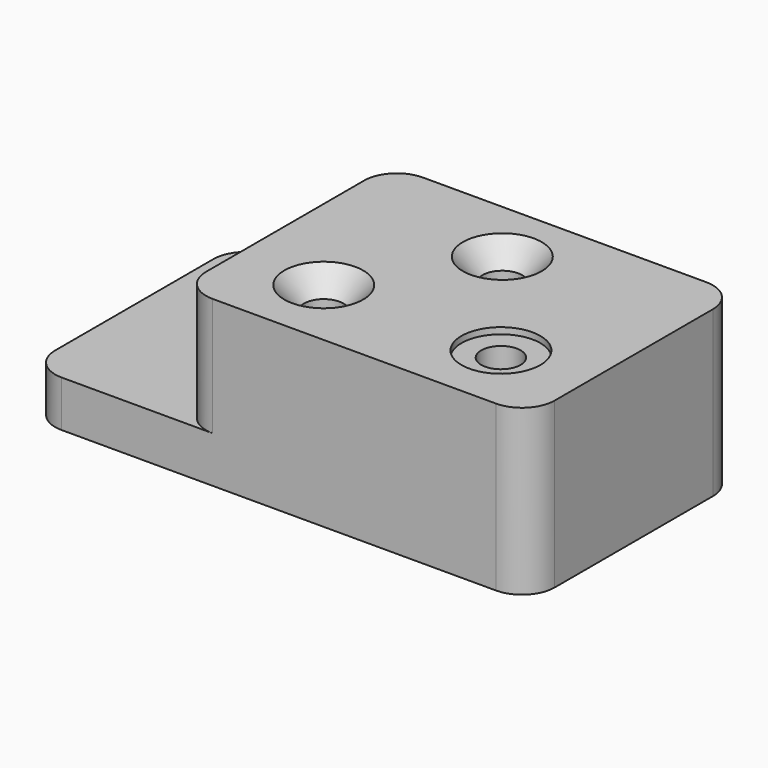
from build123d import *

# Parameters (mm, degrees)
F0_W                 = 241.3
F0_H                 = 127
F1_DEPTH             = 22.352
F2_W                 = 168.402
F2_H                 = 127
F3_DEPTH             = 57.15
F6_D                 = 19.05
F6_CBORE_D           = 38.1
F6_CBORE_DEPTH       = 3.048
F6_ON_F5_D           = 19.05
F6_ON_F5_CBORE_D     = 38.1
F6_ON_F5_CBORE_DEPTH = 3.048
F7_D                 = 19.05
F7_CSINK_D           = 38.1
F7_CSINK_ANGLE       = 82
F8_R                 = 15.748
F9_R                 = 15.748


with BuildPart() as f1:
    # F0 (on Top) → F1 (new body)
    with BuildSketch(Plane.XY):
        with Locations((-58.20049631, 38.3665429652)):
            Rectangle(F0_W, F0_H)
    extrude(amount=F1_DEPTH)

    # F2 (on face) → F3 (join)
    with BuildSketch(Plane.XY.offset(22.352)):
        with Locations((-21.75149631, 38.3665429652)):
            Rectangle(F2_W, F2_H)
    extrude(amount=F3_DEPTH)

    # F6 (through all)
    with Locations(Plane.XY.offset(22.352)):
        with Locations((-143.79849631, 70.1165429652)):
            CounterBoreHole(F6_D / 2, F6_CBORE_D / 2, F6_CBORE_DEPTH)

    # F6 on F5 (through all)
    with Locations(Plane.XY.offset(79.502)):
        with Locations((21.04750369, 9.9185429652)):
            CounterBoreHole(F6_ON_F5_D / 2, F6_ON_F5_CBORE_D / 2, F6_ON_F5_CBORE_DEPTH)

    # F7 (through all)
    with Locations(Plane.XY.offset(79.502)):
        with Locations((-26.45049631, 70.1165429652), (-64.55049631, 9.9185429652)):
            CounterSinkHole(F7_D / 2, F7_CSINK_D / 2, counter_sink_angle=F7_CSINK_ANGLE)

    # F8
    f8_edges = [f1.edges().sort_by_distance(p)[0] for p in [
        (-105.952496, -25.133457, 50.927),
        (-105.952496, 101.866543, 50.927),
        (-178.850496, 101.866543, 11.176),
        (-178.850496, -25.133457, 11.176),
    ]]
    fillet(f8_edges, radius=F8_R)

    # F9
    f9_edges = [f1.edges().sort_by_distance(p)[0] for p in [
        (62.449504, -25.133457, 39.751),
        (62.449504, 101.866543, 39.751),
    ]]
    fillet(f9_edges, radius=F9_R)


solid = f1.part
